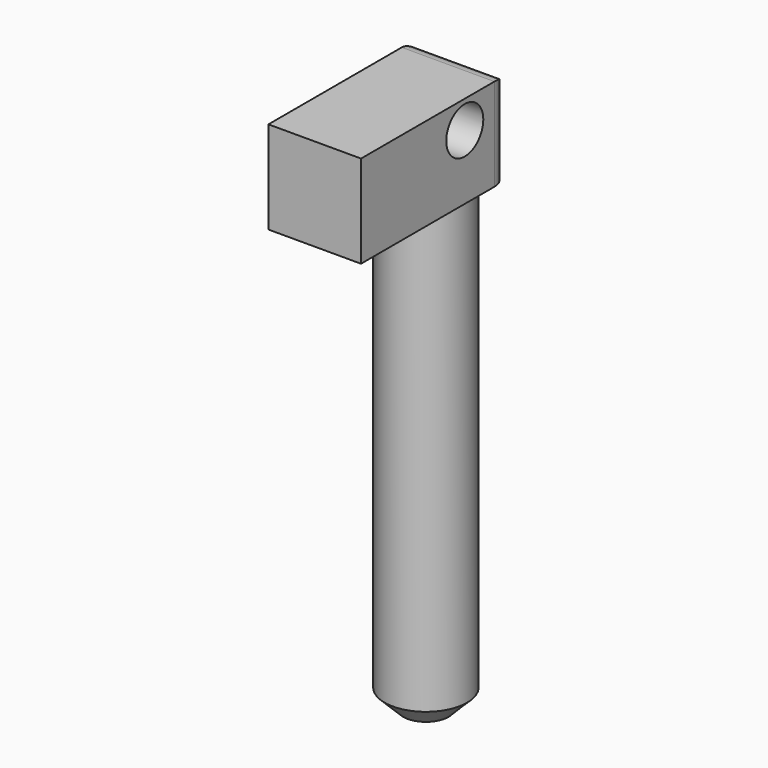
from build123d import *

# Parameters (mm, degrees)
F0_W     = 25.4
F0_H     = 50.8
F1_DEPTH = 25.4
F2_R     = 5.08
F3_R     = 11.294714
F4_DEPTH = 127
F5_SIZE  = 5.08
F6_R     = 6.35
F7_DEPTH = 12.7


with BuildPart() as f1:
    # F0 (on Top) → F1 (new body)
    with BuildSketch(Plane.XY):
        with Locations((12.7, -25.4)):
            Rectangle(F0_W, F0_H)
    extrude(amount=F1_DEPTH)

    # F2
    f2_edges = [f1.edges().sort_by_distance(p)[0] for p in [
        (12.7, 0, 25.4),
        (25.4, 0, 12.7),
        (0, 0, 12.7),
    ]]
    fillet(f2_edges, radius=F2_R)

    # F3 (on face) → F4 (join)
    with BuildSketch(Plane(origin=(0, 0, 0), x_dir=(1, 0, 0), z_dir=(0, 0, -1))):
        with Locations((12.7, 12.7)):
            Circle(F3_R)
    extrude(amount=F4_DEPTH)

    # F5
    f5_edges = [f1.edges().sort_by_distance(p)[0] for p in [
        (1.405286, -12.7, -127),
    ]]
    chamfer(f5_edges, length=F5_SIZE)

    # F6 (on face) → F7 (cut)
    with BuildSketch(Plane.YZ.offset(25.4)):
        with Locations((-15.24, 17.78)):
            Circle(F6_R)
    extrude(amount=-F7_DEPTH, mode=Mode.SUBTRACT)


solid = f1.part
